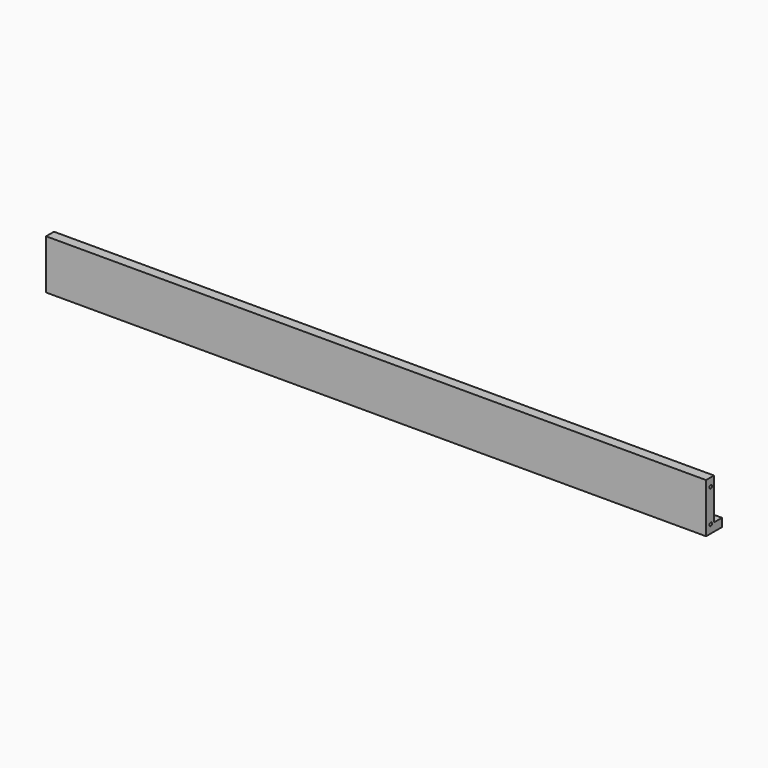
from build123d import *

# Parameters (mm, degrees)
F0_W     = 1600
F0_H     = 120
F1_DEPTH = 24
F2_R     = 4.006659
F2_R_2   = 4
F3_DEPTH = 27
F4_R     = 4
F5_DEPTH = 27
F6_W     = 1600
F6_H     = 20
F7_DEPTH = 24


with BuildPart() as f1:
    # F0 (on Front) → F1 (new body)
    with BuildSketch(Plane.XZ):
        Rectangle(F0_W, F0_H)
    extrude(amount=F1_DEPTH)

    # F2 (on face) → F3 (cut)
    with BuildSketch(Plane.YZ.offset(800)):
        with Locations((-10, 40)):
            Circle(F2_R)
        with Locations((-10, -40)):
            Circle(F2_R_2)
    extrude(amount=-F3_DEPTH, mode=Mode.SUBTRACT)

    # F4 (on face) → F5 (cut)
    with BuildSketch(Plane(origin=(-800, 0, 0), x_dir=(0, -1, 0), z_dir=(-1, 0, 0))):
        with Locations((14, 40.100251)):
            Circle(F4_R)
        with Locations((14, -40)):
            Circle(F4_R)
    extrude(amount=-F5_DEPTH, mode=Mode.SUBTRACT)

    # F6 (on face) → F7 (join)
    with BuildSketch(Plane(origin=(0, 0, 0), x_dir=(-1, 0, 0), z_dir=(0, 1, 0))):
        with Locations((0, -50)):
            Rectangle(F6_W, F6_H)
    extrude(amount=F7_DEPTH)


solid = f1.part
